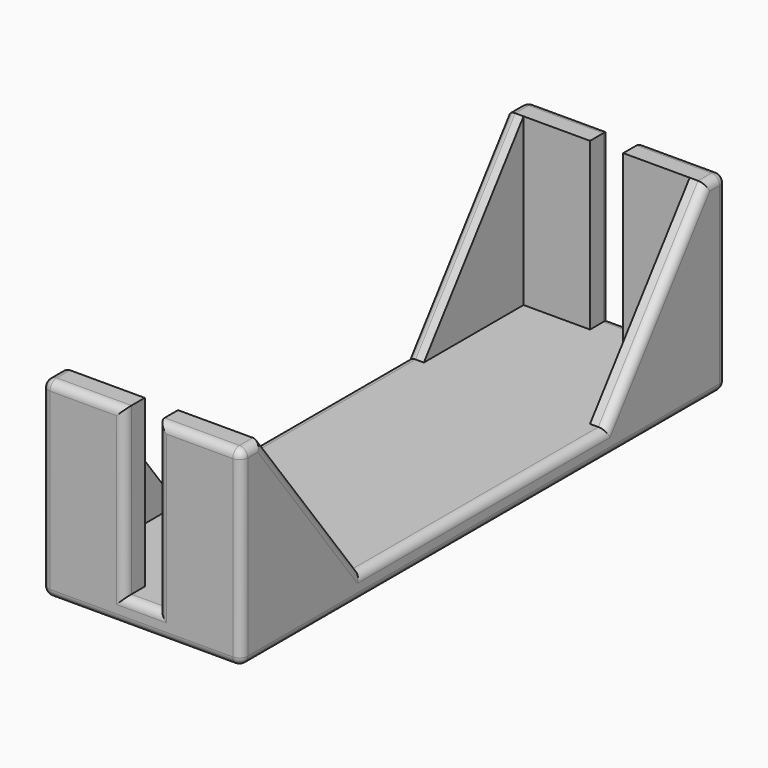
from build123d import *

# Parameters (mm, degrees)
F0_W     = 10
F0_H     = 3
F1_DEPTH = 23
F0_W_2   = 4
F2_DEPTH = 3
F4_DEPTH = 2
F6_DEPTH = 2
F7_R     = 1


with BuildPart() as f1:
    # F0 (on Top) → F1 (new body)
    with BuildSketch(Plane.XY):
        with Locations((21.8589810431, 48.6359097213)):
            Rectangle(F0_W, F0_H)
    extrude(amount=F1_DEPTH)



with BuildPart() as f1b:
    # F0 (on Top) → F1, piece 2 (new body)
    with BuildSketch(Plane.XY):
        with Locations((7.8589810431, 48.6359097213)):
            Rectangle(F0_W, F0_H)
    extrude(amount=F1_DEPTH)


with BuildPart() as f1c:
    # F0 (on Top) → F1, piece 3 (new body)
    with BuildSketch(Plane.XY):
        with Locations((7.8589810431, -21.3640902787)):
            Rectangle(F0_W, F0_H)
    extrude(amount=F1_DEPTH)


with BuildPart() as f1d:
    # F0 (on Top) → F1, piece 4 (new body)
    with BuildSketch(Plane.XY):
        with Locations((21.8589810431, -21.3640902787)):
            Rectangle(F0_W, F0_H)
    extrude(amount=F1_DEPTH)


with BuildPart() as f1_1:
    add(f1.part)

    add(f1b.part)  # F2 merges F1b

    add(f1c.part)  # F2 merges F1c

    add(f1d.part)  # F2 merges F1d
    # F0 (on Top) → F2 (join)
    with BuildSketch(Plane.XY):
        Polygon((12.8589810431, 47.1359097213), (2.8589810431, 47.1359097213), (2.8589810431, -19.8640902787), (12.8589810431, -19.8640902787), (16.8589810431, -19.8640902787), (26.8589810431, -19.8640902787), (26.8589810431, 47.1359097213), (16.8589810431, 47.1359097213), align=None)
        with Locations((14.8589810431, -21.3640902787)):
            Rectangle(F0_W_2, F0_H)
        with Locations((14.8589810431, 48.6359097213)):
            Rectangle(F0_W_2, F0_H)
    extrude(amount=F2_DEPTH)

    # F3 (on face) → F4 (join)
    with BuildSketch(Plane(origin=(2.8589810431, 0, 0), x_dir=(0, -1, 0), z_dir=(-1, 0, 0))):
        Polygon((19.8640902787, 23), (4.8640902787, 3), (19.8640902787, 3), align=None)
        Polygon((-32.1359097213, 3), (-47.1359097213, 23), (-47.1359097213, 3), align=None)
    extrude(amount=-F4_DEPTH)

    # F5 (on face) → F6 (join)
    with BuildSketch(Plane.YZ.offset(26.8589810431)):
        Polygon((47.1359097213, 23), (32.1359097213, 3), (47.1359097213, 3), align=None)
        Polygon((-4.8640902787, 3), (-19.8640902787, 23), (-19.8640902787, 3), align=None)
    extrude(amount=-F6_DEPTH)

    # F7
    f7_edges = [f1_1.edges().sort_by_distance(p)[0] for p in [
        (26.858981, 13.63591, 0),
        (14.858981, 50.13591, 0),
        (2.858981, 13.63591, 0),
        (14.858981, -22.86409, 0),
        (16.858981, -22.86409, 13),
        (21.858981, -22.86409, 23),
        (26.858981, -22.86409, 11.5),
        (2.858981, -22.86409, 11.5),
        (7.858981, -22.86409, 23),
        (12.858981, -22.86409, 13),
        (14.858981, -22.86409, 3),
        (12.858981, 50.13591, 13),
        (7.858981, 50.13591, 23),
        (2.858981, 50.13591, 11.5),
        (26.858981, 50.13591, 11.5),
        (21.858981, 50.13591, 23),
        (16.858981, 50.13591, 13),
        (14.858981, 50.13591, 3),
        (2.858981, -21.36409, 23),
        (2.858981, 48.63591, 23),
        (2.858981, 39.63591, 13),
        (2.858981, 13.63591, 3),
        (2.858981, -12.36409, 13),
        (26.858981, -21.36409, 23),
        (26.858981, -12.36409, 13),
        (26.858981, 13.63591, 3),
        (26.858981, 39.63591, 13),
        (26.858981, 48.63591, 23),
    ]]
    fillet(f7_edges, radius=F7_R)


solid = f1_1.part
